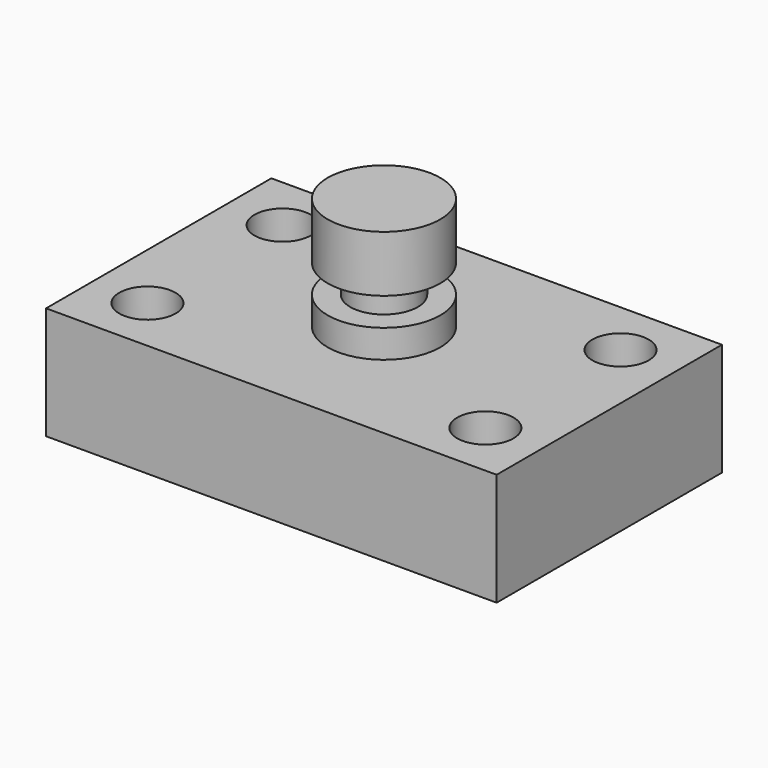
from build123d import *

# Parameters (mm, degrees)
F0_W     = 101.6
F0_H     = 63.5
F1_DEPTH = 25.4
F2_R     = 6.35
F3_DEPTH = 25.401
F4_W     = 12.7
F4_H     = 25.4
F6_W     = 26.579734
F6_H     = 6.35


with BuildPart() as f1:
    # F0 (on Top) → F1 (new body)
    with BuildSketch(Plane.XY):
        Rectangle(F0_W, F0_H)
    extrude(amount=F1_DEPTH)

    # F2 (on face) → F3 (cut, through all)
    with BuildSketch(Plane.XY.offset(25.4)):
        with Locations((38.1, 19.05)):
            Circle(F2_R)
        with Locations((-38.1, -19.05)):
            Circle(F2_R)
        with Locations((38.1, -19.05)):
            Circle(F2_R)
        with Locations((-38.1, 19.05)):
            Circle(F2_R)
    extrude(amount=-F3_DEPTH, mode=Mode.SUBTRACT)

    # F4 (on Front) → F5 (revolve)
    with BuildSketch(Plane.XZ):
        with Locations((-6.35, 38.1)):
            Rectangle(F4_W, F4_H)
    revolve(axis=Axis((0, 0, 38.1), (0, 0, -1)))

    # F6 (on Front) → F7 (revolve, cut)
    with BuildSketch(Plane.XZ):
        with Locations((-20.909867, 34.925)):
            Rectangle(F6_W, F6_H)
    revolve(axis=Axis((0, 0, 50.8), (0, 0, -1)), mode=Mode.SUBTRACT)


solid = f1.part
